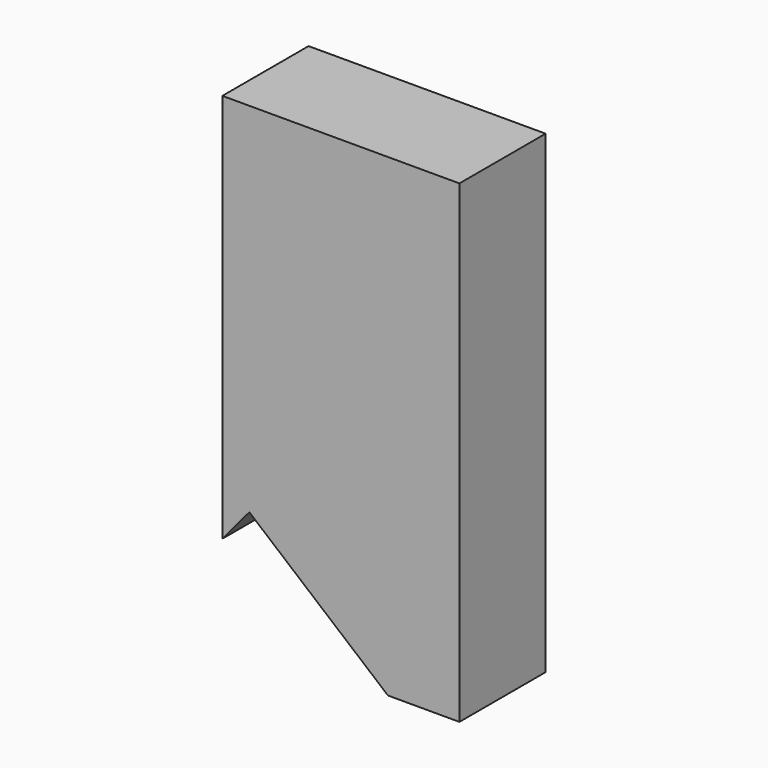
from build123d import *

# Parameters (mm, degrees)
BOX020_W               = 5
BOX020_H               = 96
BOX020_DEPTH           = 60
BOX020_PLACEMENT_ANGLE = 310
BOX017_W               = 11
BOX017_H               = 5
BOX017_DEPTH           = 22


with BuildPart() as cube020:
    # Box020 → Box020 (new body)
    with BuildSketch(Plane.XY):
        with Locations((2.5, 48)):
            Rectangle(BOX020_W, BOX020_H)
    extrude(amount=BOX020_DEPTH)


with BuildPart() as cube020_1:
    # Box020 placement: moved
    add(cube020.part.moved(Location((70, 2, -59))).rotate(Axis((70, 2, -59), (0, 1, 0)), BOX020_PLACEMENT_ANGLE))


with BuildPart() as cut011:
    # Box017 → Box017 (new body)
    with BuildSketch(Plane(origin=(26, 2, -22), x_dir=(1, 0, 0), z_dir=(0, 0, 1))):
        with Locations((5.5, 2.5)):
            Rectangle(BOX017_W, BOX017_H)
    extrude(amount=BOX017_DEPTH)

    # Cut011: cut Cube020
    add(cube020_1.part, mode=Mode.SUBTRACT)


solid = cut011.part
